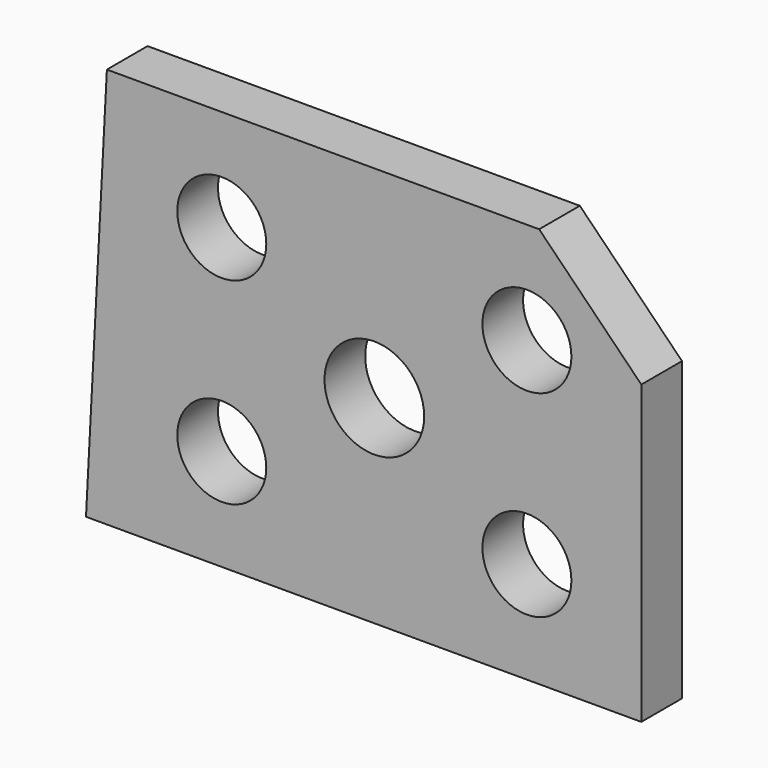
from build123d import *

# Parameters (mm, degrees)
F1_DEPTH = 12.7
F2_R     = 12.446
F2_R_2   = 11.1125
F3_DEPTH = 25.4


with BuildPart() as f1:
    # F0 (on Front) → F1 (new body)
    with BuildSketch(Plane.XZ):
        Polygon((5.216266, 100.016267), (0, 0), (138.684, 0), (138.684, 74.168), (113.166266, 100.016267), align=None)
    extrude(amount=F1_DEPTH)

    # F2 (on face) → F3 (cut)
    with BuildSketch(Plane.XZ.offset(12.7)):
        with Locations((72.009, 49.53)):
            Circle(F2_R)
        with Locations((33.909, 25.4)):
            Circle(F2_R_2)
        with Locations((33.909, 74.616267)):
            Circle(F2_R_2)
        with Locations((110.109, 74.616267)):
            Circle(F2_R_2)
        with Locations((110.109, 25.4)):
            Circle(F2_R_2)
    extrude(amount=-F3_DEPTH, mode=Mode.SUBTRACT)


solid = f1.part
